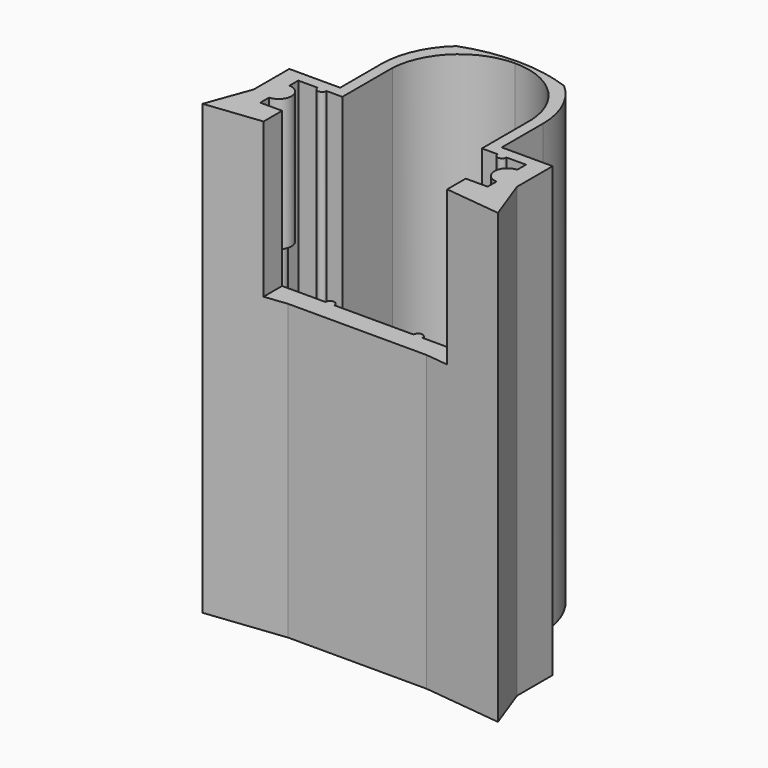
from build123d import *

# Parameters (mm, degrees)
F1_DEPTH = 61
F2_W     = 25
F2_H     = 21
F3_DEPTH = 4
F4_R     = 1.75
F5_DEPTH = 18


with BuildPart() as f1:
    # F0 (on Top) → F1 (new body)
    with BuildSketch(Plane.XY):
        with BuildLine():
            Line((-9.5, -0.15), (-9.5, 8.35))
            ThreePointArc((-9.5, 8.35), (-6.543126, 14.742744), (0, 17.35))
            Line((0, 17.35), (0, 17.85))
            ThreePointArc((0, 17.85), (-3.721623, 17.523131), (-7.329289, 16.552532))
            ThreePointArc((-7.329289, 16.552532), (-10.040473, 12.843207), (-11, 8.35))
            Line((-11, 8.35), (-11, 1.35))
            Line((-11, 1.35), (-17.922894, 1.35))
            Line((-17.922894, 1.35), (-17.922894, -4.709674))
            Line((-17.922894, -4.709674), (-20.105763, -10.681977))
            Line((-20.105763, -10.681977), (-9.422894, -9.459674))
            Line((-9.422894, -9.459674), (0, -9.459674))
            Line((0, -9.459674), (0, -6.65))
            Line((0, -6.65), (-5.4, -6.65))
            ThreePointArc((-5.4, -6.65), (-6, -6.027996), (-6.6, -6.65))
            Line((-6.6, -6.65), (-15.478196, -6.65))
            Line((-15.478196, -6.65), (-15.478196, -4.39619))
            ThreePointArc((-15.478196, -4.39619), (-14.565471, -3.389066), (-15.5, -2.402142))
            Line((-15.5, -2.402142), (-15.5, -0.15))
            Line((-15.5, -0.15), (-12.85729, -0.15))
            ThreePointArc((-12.85729, -0.15), (-12.25729, -0.75), (-11.65729, -0.15))
            Line((-11.65729, -0.15), (-9.5, -0.15))
        make_face()
        with BuildLine():
            Line((0, 17.85), (0, 17.35))
            ThreePointArc((0, 17.35), (6.543126, 14.742744), (9.5, 8.35))
            Line((9.5, 8.35), (9.5, -0.15))
            Line((9.5, -0.15), (11.65729, -0.15))
            ThreePointArc((11.65729, -0.15), (12.25729, -0.75), (12.85729, -0.15))
            Line((12.85729, -0.15), (15.5, -0.15))
            Line((15.5, -0.15), (15.5, -2.402142))
            ThreePointArc((15.5, -2.402142), (14.565471, -3.389066), (15.478196, -4.39619))
            Line((15.478196, -4.39619), (15.478196, -6.65))
            Line((15.478196, -6.65), (6.6, -6.65))
            ThreePointArc((6.6, -6.65), (6, -6.027996), (5.4, -6.65))
            Line((5.4, -6.65), (0, -6.65))
            Line((0, -6.65), (0, -9.459674))
            Line((0, -9.459674), (9.422894, -9.459674))
            Line((9.422894, -9.459674), (20.105763, -10.681977))
            Line((20.105763, -10.681977), (17.922894, -4.709674))
            Line((17.922894, -4.709674), (17.922894, 1.35))
            Line((17.922894, 1.35), (11, 1.35))
            Line((11, 1.35), (11, 8.35))
            ThreePointArc((11, 8.35), (10.040473, 12.843207), (7.329289, 16.552532))
            ThreePointArc((7.329289, 16.552532), (3.721623, 17.523131), (0, 17.85))
        make_face()
    extrude(amount=F1_DEPTH)

    # F2 (on face) → F3 (cut, symmetric)
    with BuildSketch(Plane.XZ.offset(9.459674)):
        with Locations((0, 50.5)):
            Rectangle(F2_W, F2_H)
    extrude(amount=F3_DEPTH, both=True, mode=Mode.SUBTRACT)

    # F4 (on face) → F5 (join)
    with BuildSketch(Plane.XY.offset(61)):
        with Locations((-15.565411, -3.4)):
            Circle(F4_R)
        with Locations((15.565411, -3.4)):
            Circle(F4_R)
    extrude(amount=-F5_DEPTH)


solid = f1.part
